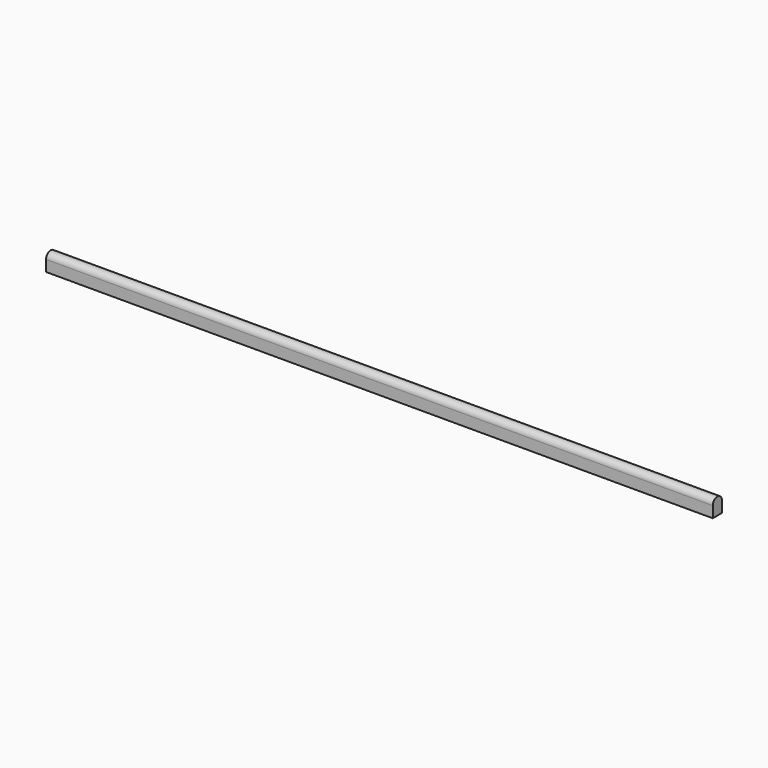
from build123d import *

# Parameters (mm, degrees)
F1_DEPTH = 990


with BuildPart() as f1:
    # F0 (on Right) → F1 (new body)
    with BuildSketch(Plane.YZ):
        with BuildLine():
            Line((8.5, 0), (8.5, 16.5))
            ThreePointArc((8.5, 16.5), (0, 25), (-8.5, 16.5))
            Line((-8.5, 16.5), (-8.5, 0))
            Line((-8.5, 0), (8.5, 0))
        make_face()
    extrude(amount=F1_DEPTH)


solid = f1.part
